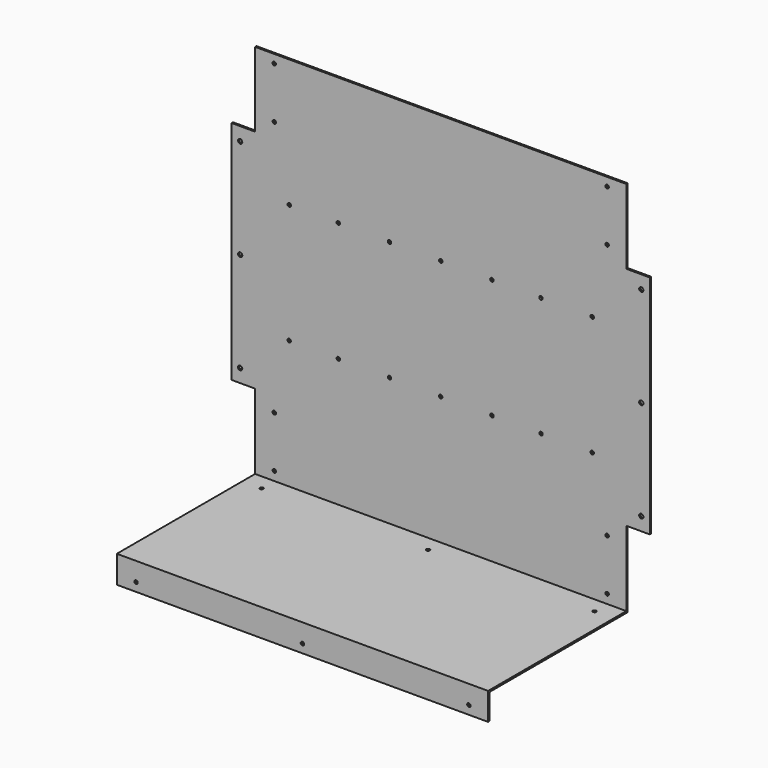
from build123d import *

# Parameters (mm, degrees)
F1_DEPTH  = 2.54
F2_R      = 2.579688
F2_R_2    = 3.175
F3_DEPTH  = 2.541
F4_W      = 552.45
F4_H      = 2.54
F5_DEPTH  = 257.175
F6_W      = 552.45
F6_H      = 2.54
F7_DEPTH  = 38.1
F8_R      = 2.579688
F9_DEPTH  = 259.716
F10_R     = 2.579688
F11_DEPTH = 561.976


with BuildPart() as f1:
    # F0 (on Front) → F1 (new body)
    with BuildSketch(Plane.XZ):
        Polygon((587.375, 336.55), (587.375, 447.675), (34.925, 447.675), (34.925, 336.55), (0, 336.55), (0, 0), (34.925, 0), (34.925, -114.3), (587.375, -114.3), (587.375, 0), (622.3, 0), (622.3, 336.55), align=None)
    extrude(amount=F1_DEPTH)

    # F2 (on face) → F3 (cut, through all)
    with BuildSketch(Plane(origin=(0, 0, 0), x_dir=(-1, 0, 0), z_dir=(0, 1, 0))):
        with Locations((-558.8, 434.975)):
            Circle(F2_R)
        with Locations((-558.8, 358.775)):
            Circle(F2_R)
        with Locations((-63.5, 358.775)):
            Circle(F2_R)
        with Locations((-63.5, 434.975)):
            Circle(F2_R)
        with Locations((-609.6, 316.70625)):
            Circle(F2_R_2)
        with Locations((-609.6, 168.275)):
            Circle(F2_R_2)
        with Locations((-609.6, 19.84375)):
            Circle(F2_R_2)
        with Locations((-12.7, 19.84375)):
            Circle(F2_R_2)
        with Locations((-12.7, 168.275)):
            Circle(F2_R_2)
        with Locations((-12.7, 316.70625)):
            Circle(F2_R_2)
        with Locations((-558.8, -22.225)):
            Circle(F2_R)
        with Locations((-558.8, -98.425)):
            Circle(F2_R)
        with Locations((-63.5, -98.425)):
            Circle(F2_R)
        with Locations((-63.5, -22.225)):
            Circle(F2_R)
        with Locations((-85.725, 257.175)):
            Circle(F2_R)
        with Locations((-536.575, 257.175)):
            Circle(F2_R)
        with Locations((-234.95, 257.175)):
            Circle(F2_R)
        with Locations((-387.35, 257.175)):
            Circle(F2_R)
        with Locations((-311.15, 257.175)):
            Circle(F2_R)
        with Locations((-158.75, 257.175)):
            Circle(F2_R)
        with Locations((-460.375, 257.175)):
            Circle(F2_R)
        with Locations((-460.375, 79.375)):
            Circle(F2_R)
        with Locations((-234.95, 79.375)):
            Circle(F2_R)
        with Locations((-158.75, 79.375)):
            Circle(F2_R)
        with Locations((-85.725, 79.375)):
            Circle(F2_R)
        with Locations((-387.35, 79.375)):
            Circle(F2_R)
        with Locations((-311.15, 79.375)):
            Circle(F2_R)
        with Locations((-536.575, 79.375)):
            Circle(F2_R)
    extrude(amount=-F3_DEPTH, mode=Mode.SUBTRACT)

    # F4 (on face) → F5 (join)
    with BuildSketch(Plane.XZ.offset(2.54)):
        with Locations((311.15, -113.03)):
            Rectangle(F4_W, F4_H)
    extrude(amount=F5_DEPTH)

    # F6 (on face) → F7 (join)
    with BuildSketch(Plane(origin=(0, 0, -114.3), x_dir=(1, 0, 0), z_dir=(0, 0, -1))):
        with Locations((311.15, 258.445)):
            Rectangle(F6_W, F6_H)
    extrude(amount=F7_DEPTH)

    # F8 (on face) → F9 (cut, through all)
    with BuildSketch(Plane.XZ.offset(259.715)):
        with Locations((311.15, -139.7)):
            Circle(F8_R)
        with Locations((558.8, -139.7)):
            Circle(F8_R)
        with Locations((63.5, -139.7)):
            Circle(F8_R)
    extrude(amount=-F9_DEPTH, mode=Mode.SUBTRACT)

    # F10 (on face) → F11 (cut, through all)
    with BuildSketch(Plane(origin=(0, 0, -114.3), x_dir=(1, 0, 0), z_dir=(0, 0, -1))):
        with Locations((311.15, 26.035)):
            Circle(F10_R)
        with Locations((558.8, 26.035)):
            Circle(F10_R)
        with Locations((63.5, 26.035)):
            Circle(F10_R)
    extrude(amount=-F11_DEPTH, mode=Mode.SUBTRACT)


solid = f1.part
